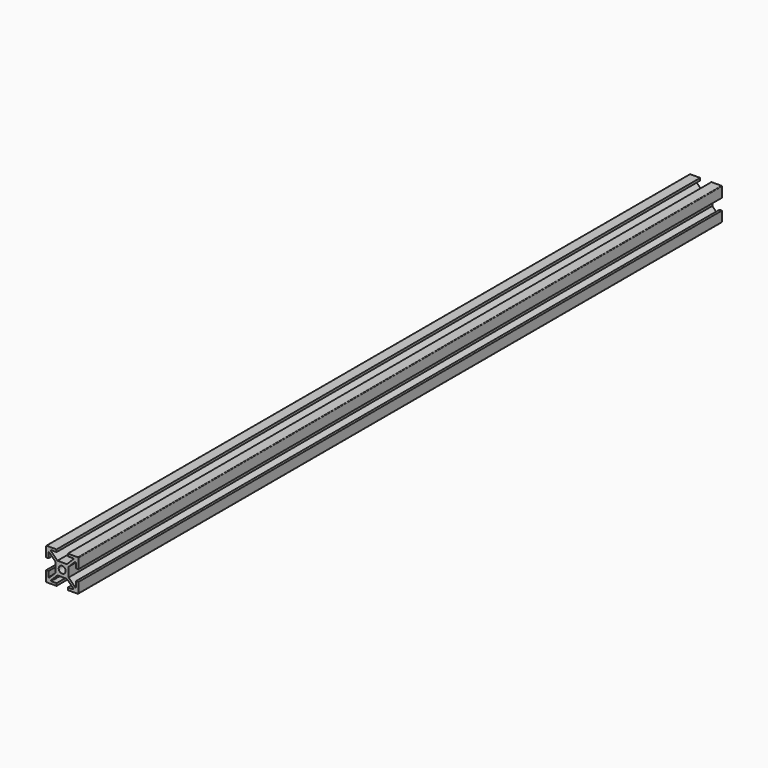
from build123d import *

# Parameters (mm, degrees)
F0_R     = 2.15
F1_DEPTH = 400
F2_DEPTH = 500


with BuildPart() as f1:
    # F0 (on Front) → F1 (new body)
    with BuildSketch(Plane.XZ):
        Polygon((4, 2.93934), (4, 4), (2.93934, 4), (-2.93934, 4), (-4, 4), (-4, 2.93934), (-4, -2.93934), (-4, -4), (-2.93934, -4), (2.93934, -4), (4, -4), (4, -2.93934), align=None)
        Circle(F0_R, mode=Mode.SUBTRACT)
        with BuildLine():
            Line((2.93934, 4), (4, 4))
            Line((4, 4), (4, 2.93934))
            Line((4, 2.93934), (7.939338, 6.878678))
            ThreePointArc((7.939338, 6.878678), (8.297256, 6.949873), (8.5, 6.646445))
            Line((8.5, 6.646445), (8.5, 3.5))
            Line((8.5, 3.5), (10, 3.5))
            Line((10, 3.5), (10, 9.671572))
            ThreePointArc((10, 9.671572), (9.903806, 9.903806), (9.671572, 10))
            Line((9.671572, 10), (3.5, 10))
            Line((3.5, 10), (3.5, 8.5))
            Line((3.5, 8.5), (6.646445, 8.5))
            ThreePointArc((6.646445, 8.5), (6.949873, 8.297256), (6.878678, 7.939338))
            Line((6.878678, 7.939338), (2.93934, 4))
        make_face()
        with BuildLine():
            Line((-4, 4), (-2.93934, 4))
            Line((-2.93934, 4), (-6.878678, 7.939338))
            ThreePointArc((-6.878678, 7.939338), (-6.949873, 8.297256), (-6.646445, 8.5))
            Line((-6.646445, 8.5), (-3.5, 8.5))
            Line((-3.5, 8.5), (-3.5, 10))
            Line((-3.5, 10), (-9.671572, 10))
            ThreePointArc((-9.671572, 10), (-9.903806, 9.903806), (-10, 9.671572))
            Line((-10, 9.671572), (-10, 3.5))
            Line((-10, 3.5), (-8.5, 3.5))
            Line((-8.5, 3.5), (-8.5, 6.646445))
            ThreePointArc((-8.5, 6.646445), (-8.297256, 6.949873), (-7.939338, 6.878678))
            Line((-7.939338, 6.878678), (-4, 2.93934))
            Line((-4, 2.93934), (-4, 4))
        make_face()
        with BuildLine():
            Line((7.939338, -6.878678), (4, -2.93934))
            Line((4, -2.93934), (4, -4))
            Line((4, -4), (2.93934, -4))
            Line((2.93934, -4), (6.878678, -7.939338))
            ThreePointArc((6.878678, -7.939338), (6.949873, -8.297256), (6.646445, -8.5))
            Line((6.646445, -8.5), (3.5, -8.5))
            Line((3.5, -8.5), (3.5, -10))
            Line((3.5, -10), (9.671572, -10))
            ThreePointArc((9.671572, -10), (9.903806, -9.903806), (10, -9.671572))
            Line((10, -9.671572), (10, -3.5))
            Line((10, -3.5), (8.5, -3.5))
            Line((8.5, -3.5), (8.5, -6.646445))
            ThreePointArc((8.5, -6.646445), (8.297256, -6.949873), (7.939338, -6.878678))
        make_face()
        with BuildLine():
            Line((-4, -4), (-4, -2.93934))
            Line((-4, -2.93934), (-7.939338, -6.878678))
            ThreePointArc((-7.939338, -6.878678), (-8.297256, -6.949873), (-8.5, -6.646445))
            Line((-8.5, -6.646445), (-8.5, -3.5))
            Line((-8.5, -3.5), (-10, -3.5))
            Line((-10, -3.5), (-10, -9.671572))
            ThreePointArc((-10, -9.671572), (-9.903806, -9.903806), (-9.671572, -10))
            Line((-9.671572, -10), (-3.5, -10))
            Line((-3.5, -10), (-3.5, -8.5))
            Line((-3.5, -8.5), (-6.646445, -8.5))
            ThreePointArc((-6.646445, -8.5), (-6.949873, -8.297256), (-6.878678, -7.939338))
            Line((-6.878678, -7.939338), (-2.93934, -4))
            Line((-2.93934, -4), (-4, -4))
        make_face()
    extrude(amount=F1_DEPTH)


with BuildPart() as f2:
    # F0 (on Front) → F2 (new body)
    with BuildSketch(Plane.XZ):
        Polygon((4, 2.93934), (4, 4), (2.93934, 4), (-2.93934, 4), (-4, 4), (-4, 2.93934), (-4, -2.93934), (-4, -4), (-2.93934, -4), (2.93934, -4), (4, -4), (4, -2.93934), align=None)
        Circle(F0_R, mode=Mode.SUBTRACT)
        with BuildLine():
            Line((2.93934, 4), (4, 4))
            Line((4, 4), (4, 2.93934))
            Line((4, 2.93934), (7.939338, 6.878678))
            ThreePointArc((7.939338, 6.878678), (8.297256, 6.949873), (8.5, 6.646445))
            Line((8.5, 6.646445), (8.5, 3.5))
            Line((8.5, 3.5), (10, 3.5))
            Line((10, 3.5), (10, 9.671572))
            ThreePointArc((10, 9.671572), (9.903806, 9.903806), (9.671572, 10))
            Line((9.671572, 10), (3.5, 10))
            Line((3.5, 10), (3.5, 8.5))
            Line((3.5, 8.5), (6.646445, 8.5))
            ThreePointArc((6.646445, 8.5), (6.949873, 8.297256), (6.878678, 7.939338))
            Line((6.878678, 7.939338), (2.93934, 4))
        make_face()
        with BuildLine():
            Line((-4, 4), (-2.93934, 4))
            Line((-2.93934, 4), (-6.878678, 7.939338))
            ThreePointArc((-6.878678, 7.939338), (-6.949873, 8.297256), (-6.646445, 8.5))
            Line((-6.646445, 8.5), (-3.5, 8.5))
            Line((-3.5, 8.5), (-3.5, 10))
            Line((-3.5, 10), (-9.671572, 10))
            ThreePointArc((-9.671572, 10), (-9.903806, 9.903806), (-10, 9.671572))
            Line((-10, 9.671572), (-10, 3.5))
            Line((-10, 3.5), (-8.5, 3.5))
            Line((-8.5, 3.5), (-8.5, 6.646445))
            ThreePointArc((-8.5, 6.646445), (-8.297256, 6.949873), (-7.939338, 6.878678))
            Line((-7.939338, 6.878678), (-4, 2.93934))
            Line((-4, 2.93934), (-4, 4))
        make_face()
        with BuildLine():
            Line((7.939338, -6.878678), (4, -2.93934))
            Line((4, -2.93934), (4, -4))
            Line((4, -4), (2.93934, -4))
            Line((2.93934, -4), (6.878678, -7.939338))
            ThreePointArc((6.878678, -7.939338), (6.949873, -8.297256), (6.646445, -8.5))
            Line((6.646445, -8.5), (3.5, -8.5))
            Line((3.5, -8.5), (3.5, -10))
            Line((3.5, -10), (9.671572, -10))
            ThreePointArc((9.671572, -10), (9.903806, -9.903806), (10, -9.671572))
            Line((10, -9.671572), (10, -3.5))
            Line((10, -3.5), (8.5, -3.5))
            Line((8.5, -3.5), (8.5, -6.646445))
            ThreePointArc((8.5, -6.646445), (8.297256, -6.949873), (7.939338, -6.878678))
        make_face()
        with BuildLine():
            Line((-4, -4), (-4, -2.93934))
            Line((-4, -2.93934), (-7.939338, -6.878678))
            ThreePointArc((-7.939338, -6.878678), (-8.297256, -6.949873), (-8.5, -6.646445))
            Line((-8.5, -6.646445), (-8.5, -3.5))
            Line((-8.5, -3.5), (-10, -3.5))
            Line((-10, -3.5), (-10, -9.671572))
            ThreePointArc((-10, -9.671572), (-9.903806, -9.903806), (-9.671572, -10))
            Line((-9.671572, -10), (-3.5, -10))
            Line((-3.5, -10), (-3.5, -8.5))
            Line((-3.5, -8.5), (-6.646445, -8.5))
            ThreePointArc((-6.646445, -8.5), (-6.949873, -8.297256), (-6.878678, -7.939338))
            Line((-6.878678, -7.939338), (-2.93934, -4))
            Line((-2.93934, -4), (-4, -4))
        make_face()
    extrude(amount=F2_DEPTH)


solid = Compound([f1.part, f2.part])
